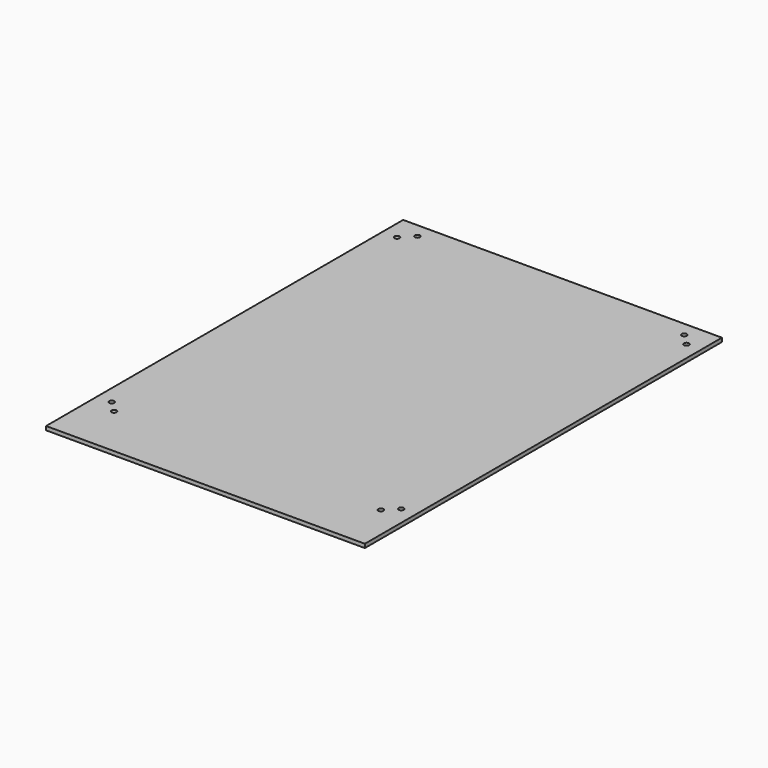
from build123d import *

# Parameters (mm, degrees)
F1_DEPTH = 500
F3_DEPTH = 23.191775822
F4_R     = 4
F5_DEPTH = 6.001
F6_W     = 500
F6_H     = 122.3183423281
F7_DEPTH = 23.3658177667


with BuildPart() as f1:
    # F0 (on Right) → F1 (new body)
    with BuildSketch(Plane.YZ):
        Polygon((700, 0), (0, 0), (-98.4807753012, 17.3648177667), (-99.5226643672, 11.4559712486), (0, -6), (700, -6), align=None)
    extrude(amount=F1_DEPTH)

    # F2 (on face) → F3 (cut, through all)
    with BuildSketch(Plane(origin=(0, 0, 0), x_dir=(1, 0, 0), z_dir=(0, 0.1736481777, 0.984807753))):
        with BuildLine():
            Line((0, -100), (50, -100))
            ThreePointArc((50, -100), (14.6446609407, -85.3553390593), (0, -50))
            Line((0, -50), (0, -100))
        make_face()
        with BuildLine():
            ThreePointArc((500, -50), (485.3553390593, -85.3553390593), (450, -100))
            Line((450, -100), (500, -100))
            Line((500, -100), (500, -50))
        make_face()
    extrude(amount=-F3_DEPTH, mode=Mode.SUBTRACT)

    # F4 (on face) → F5 (cut, through all)
    with BuildSketch(Plane.XY):
        with Locations((23, 100)):
            Circle(F4_R)
        with Locations((40.6847405975, 82.3152594025)):
            Circle(F4_R)
        with Locations((23, 659.3152594025)):
            Circle(F4_R)
        with Locations((40.6847405975, 677)):
            Circle(F4_R)
        with Locations((459.3152594025, 677)):
            Circle(F4_R)
        with Locations((477, 659.3152594025)):
            Circle(F4_R)
        with Locations((477, 100)):
            Circle(F4_R)
        with Locations((459.3152594025, 82.3152594025)):
            Circle(F4_R)
    extrude(amount=-F5_DEPTH, mode=Mode.SUBTRACT)

    # F6 (on face) → F7 (cut, through all)
    with BuildSketch(Plane(origin=(0, 0, -6), x_dir=(1, 0, 0), z_dir=(0, 0, -1))):
        with Locations((250, 61.159171164)):
            Rectangle(F6_W, F6_H)
    extrude(amount=-F7_DEPTH, mode=Mode.SUBTRACT)


solid = f1.part
